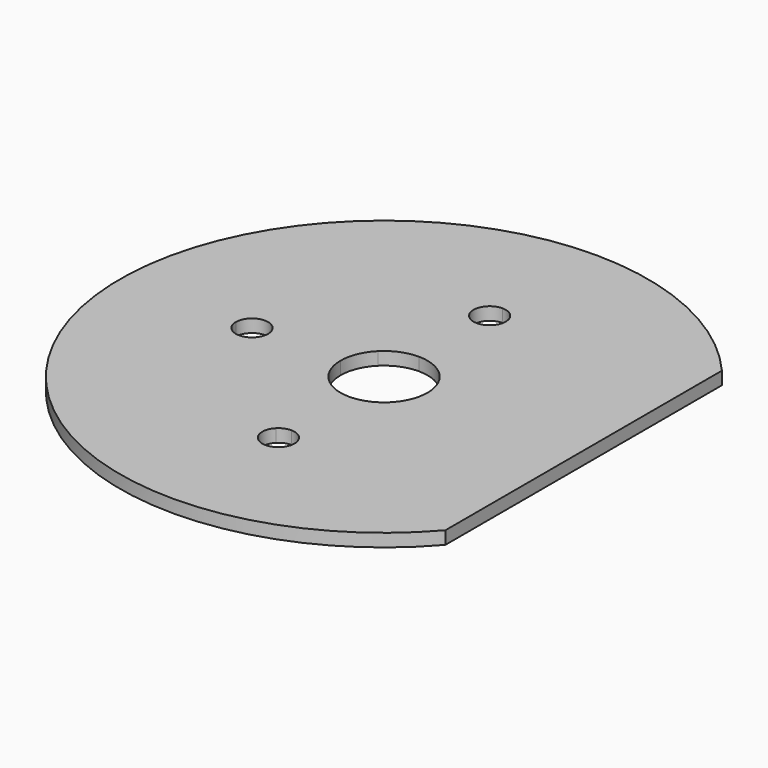
from build123d import *

# Parameters (mm, degrees)
F0_R     = 41
F1_DEPTH = 2
F3_DEPTH = 2.001


with BuildPart() as f1:
    # F0 (on Top) → F1 (new body)
    with BuildSketch(Plane.XY):
        Circle(F0_R)
    extrude(amount=F1_DEPTH)

    # F2 (on face) → F3 (cut, through all)
    with BuildSketch(Plane.XY.offset(2)):
        with BuildLine():
            Line((-23, 0), (-20.5, 0))
            Line((-20.5, 0), (-18.732233047, 1.767766953))
            ThreePointArc((-18.732233047, 1.767766953), (-21.4567085809, 2.3096988313), (-23, 0))
        make_face()
        with BuildLine():
            Line((-18.732233047, -1.767766953), (-20.5, 0))
            Line((-20.5, 0), (-23, 0))
            ThreePointArc((-23, 0), (-21.4567085809, -2.3096988313), (-18.732233047, -1.767766953))
        make_face()
        with BuildLine():
            ThreePointArc((-18.732233047, -1.767766953), (-18.1903011687, -0.9567085809), (-18, 0))
            Line((-18, 0), (-20.5, 0))
            Line((-20.5, 0), (-18.732233047, -1.767766953))
        make_face()
        with BuildLine():
            Line((-20.5, 0), (-18, 0))
            ThreePointArc((-18, 0), (-18.1903011687, 0.9567085809), (-18.732233047, 1.767766953))
            Line((-18.732233047, 1.767766953), (-20.5, 0))
        make_face()
        with BuildLine():
            Line((-1.767766953, 18.732233047), (0, 20.5))
            Line((0, 20.5), (0, 23))
            ThreePointArc((0, 23), (-2.3096988313, 21.4567085809), (-1.767766953, 18.732233047))
        make_face()
        with BuildLine():
            ThreePointArc((-1.767766953, 18.732233047), (-0.9567085809, 18.1903011687), (0, 18))
            Line((0, 18), (0, 20.5))
            Line((0, 20.5), (-1.767766953, 18.732233047))
        make_face()
        with BuildLine():
            Line((0, 20.5), (0, 18))
            ThreePointArc((0, 18), (0.9567085809, 18.1903011687), (1.767766953, 18.732233047))
            Line((1.767766953, 18.732233047), (0, 20.5))
        make_face()
        with BuildLine():
            Line((0, 23), (0, 20.5))
            Line((0, 20.5), (1.767766953, 18.732233047))
            ThreePointArc((1.767766953, 18.732233047), (2.3096988313, 19.5432914191), (2.5, 20.5))
            ThreePointArc((2.5, 20.5), (1.767766953, 22.267766953), (0, 23))
        make_face()
        with BuildLine():
            Line((-4.772970773, 4.772970773), (0, 0))
            Line((0, 0), (0, 6.75))
            ThreePointArc((0, 6.75), (-2.5831131685, 6.2361868445), (-4.772970773, 4.772970773))
        make_face()
        with BuildLine():
            Line((-6.75, 0), (0, 0))
            Line((0, 0), (-4.772970773, 4.772970773))
            ThreePointArc((-4.772970773, 4.772970773), (-6.2361868445, 2.5831131685), (-6.75, 0))
        make_face()
        with BuildLine():
            Line((-4.772970773, -4.772970773), (0, 0))
            Line((0, 0), (-6.75, 0))
            ThreePointArc((-6.75, 0), (-6.2361868445, -2.5831131685), (-4.772970773, -4.772970773))
        make_face()
        with BuildLine():
            Line((0, -6.75), (0, 0))
            Line((0, 0), (-4.772970773, -4.772970773))
            ThreePointArc((-4.772970773, -4.772970773), (-2.5831131685, -6.2361868445), (0, -6.75))
        make_face()
        with BuildLine():
            Line((4.772970773, -4.772970773), (0, 0))
            Line((0, 0), (0, -6.75))
            ThreePointArc((0, -6.75), (2.5831131685, -6.2361868445), (4.772970773, -4.772970773))
        make_face()
        with BuildLine():
            Line((6.75, 0), (0, 0))
            Line((0, 0), (5.7423592933, -3.5479303469))
            ThreePointArc((5.7423592933, -3.5479303469), (6.4932051111, -1.8441223888), (6.75, 0))
        make_face()
        with BuildLine():
            Line((5.7423592933, 3.5479303469), (0, 0))
            Line((0, 0), (6.75, 0))
            ThreePointArc((6.75, 0), (6.4932051111, 1.8441223888), (5.7423592933, 3.5479303469))
        make_face()
        with BuildLine():
            Line((0, 6.75), (0, 0))
            Line((0, 0), (4.772970773, 4.772970773))
            ThreePointArc((4.772970773, 4.772970773), (2.5831131685, 6.2361868445), (0, 6.75))
        make_face()
        with BuildLine():
            Line((5.7423592933, -3.5479303469), (0, 0))
            Line((0, 0), (4.772970773, -4.772970773))
            ThreePointArc((4.772970773, -4.772970773), (5.2932242171, -4.1885889495), (5.7423592933, -3.5479303469))
        make_face()
        with BuildLine():
            Line((4.772970773, 4.772970773), (0, 0))
            Line((0, 0), (5.7423592933, 3.5479303469))
            ThreePointArc((5.7423592933, 3.5479303469), (5.2932242171, 4.1885889495), (4.772970773, 4.772970773))
        make_face()
        with BuildLine():
            Line((0, -23), (0, -20.5))
            Line((0, -20.5), (-1.767766953, -18.732233047))
            ThreePointArc((-1.767766953, -18.732233047), (-2.3096988313, -21.4567085809), (0, -23))
        make_face()
        with BuildLine():
            ThreePointArc((1.767766953, -18.732233047), (0.9567085809, -18.1903011687), (0, -18))
            Line((0, -18), (0, -20.5))
            Line((0, -20.5), (1.767766953, -18.732233047))
        make_face()
        with BuildLine():
            Line((0, -20.5), (0, -18))
            ThreePointArc((0, -18), (-0.9567085809, -18.1903011687), (-1.767766953, -18.732233047))
            Line((-1.767766953, -18.732233047), (0, -20.5))
        make_face()
        with BuildLine():
            Line((1.767766953, -18.732233047), (0, -20.5))
            Line((0, -20.5), (0, -23))
            ThreePointArc((0, -23), (1.767766953, -22.267766953), (2.5, -20.5))
            ThreePointArc((2.5, -20.5), (2.3096988313, -19.5432914191), (1.767766953, -18.732233047))
        make_face()
        with BuildLine():
            Line((41, 0), (31, 0))
            Line((31, 0), (31, -26.83281573))
            ThreePointArc((31, -26.83281573), (38.4187454246, -14.3178210633), (41, 0))
        make_face()
        with BuildLine():
            Line((31, 26.83281573), (31, 0))
            Line((31, 0), (41, 0))
            ThreePointArc((41, 0), (38.4187454246, 14.3178210633), (31, 26.83281573))
        make_face()
    extrude(amount=-F3_DEPTH, mode=Mode.SUBTRACT)


solid = f1.part
